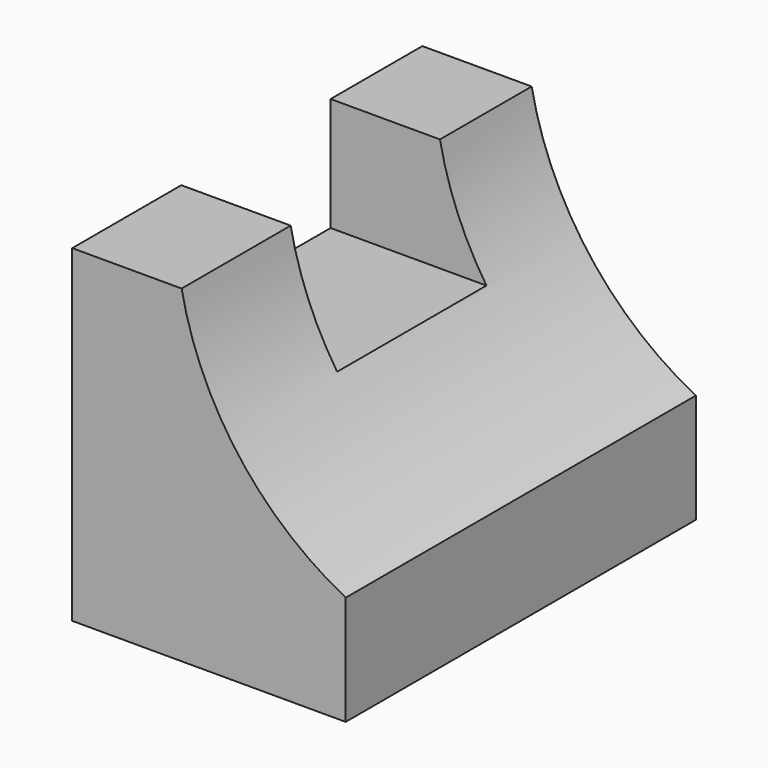
from build123d import *

# Parameters (mm, degrees)
F1_DEPTH = 50.8
F2_W     = 25.4
F2_H     = 15.645319
F3_DEPTH = 50.8
F4_W     = 21.66615
F4_H     = 13.618723
F5_DEPTH = 85.344


with BuildPart() as f1:
    # F0 (on Front) → F1 (new body)
    with BuildSketch(Plane.XZ):
        with BuildLine():
            Line((12.7, 38.1), (0, 38.1))
            Line((0, 38.1), (0, 0))
            Line((0, 0), (31.75, 0))
            Line((31.75, 0), (31.75, 12.7))
            ThreePointArc((31.75, 12.7), (19.301518, 23.207389), (12.7, 38.1))
        make_face()
    extrude(amount=F1_DEPTH)

    # F2 (on Right) → F3 (cut)
    with BuildSketch(Plane.YZ):
        with Locations((-24.754254, 30.332612)):
            Rectangle(F2_W, F2_H)
    extrude(amount=-F3_DEPTH, mode=Mode.SUBTRACT)

    # F4 (on Right) → F5 (cut)
    with BuildSketch(Plane.YZ):
        with Locations((-24.142282, 31.725436)):
            Rectangle(F4_W, F4_H)
    extrude(amount=F5_DEPTH, mode=Mode.SUBTRACT)


solid = f1.part
